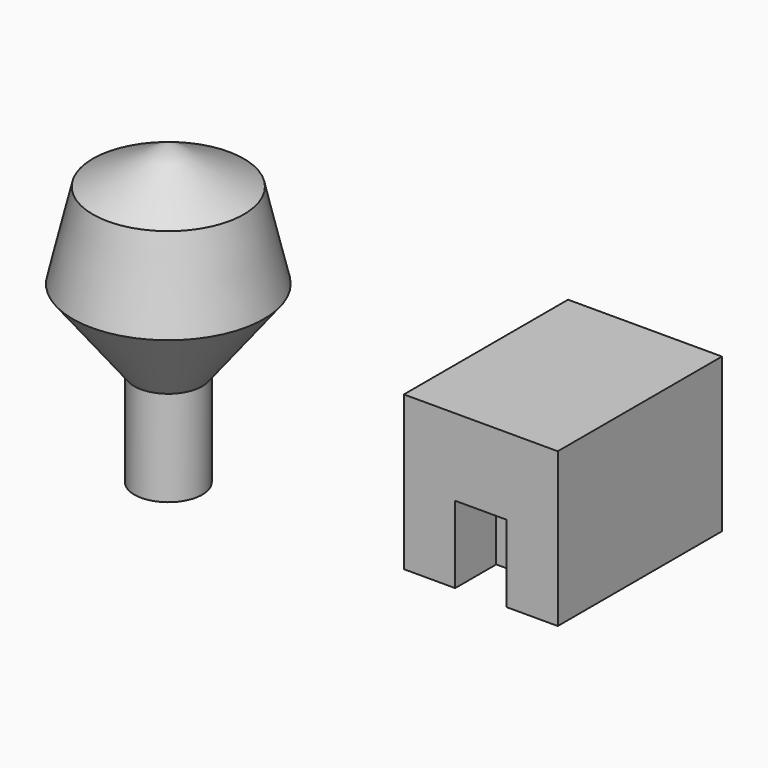
from build123d import *

# Parameters (mm, degrees)
F0_W     = 30
F0_H     = 40
F1_DEPTH = 30
F2_W     = 10
F2_H     = 15
F3_DEPTH = 10


with BuildPart() as f1:
    # F0 (on Top) → F1 (new body)
    with BuildSketch(Plane.XY):
        with Locations((15, 20)):
            Rectangle(F0_W, F0_H)
    extrude(amount=F1_DEPTH)

    # F2 (on face) → F3 (cut)
    with BuildSketch(Plane.XZ):
        with Locations((15, 7.5)):
            Rectangle(F2_W, F2_H)
    extrude(amount=-F3_DEPTH, mode=Mode.SUBTRACT)


with BuildPart() as f5:
    # F4 (on Front) → F5 (revolve)
    with BuildSketch(Plane.XZ):
        Polygon((-64.566754, 34.05777), (-52.54963, 18.607184), (-52.54963, 0), (-45.927949, 0), (-45.927949, 58.337264), (-60.642794, 50.734594), align=None)
    revolve(axis=Axis((-45.927949, 0, 29.168632), (0, 0, -1)))


solid = Compound([f1.part, f5.part])
